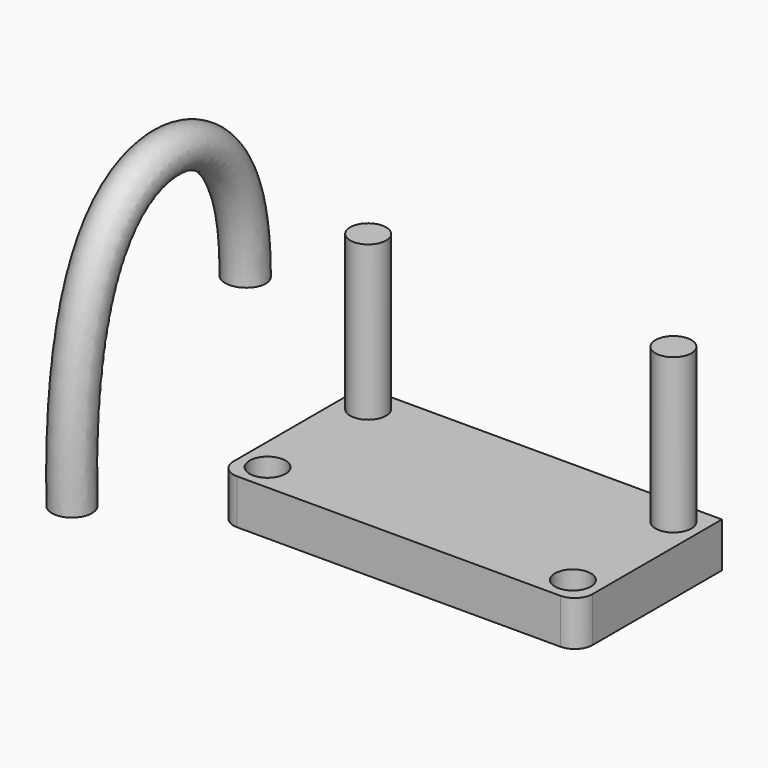
from build123d import *

# Parameters (mm, degrees)
F0_R     = 5.08
F1_DEPTH = 12.7
F4_R     = 5.6629201778


with BuildPart() as f1:
    # F0 (on Top) → F1 (new body)
    with BuildSketch(Plane.XY):
        with BuildLine():
            Line((50.8, 25.4), (-50.8, 25.4))
            Line((-50.8, 25.4), (-50.8, -20.32))
            ThreePointArc((-50.8, -20.32), (-49.3121024484, -23.9121024484), (-45.72, -25.4))
            Line((-45.72, -25.4), (45.72, -25.4))
            ThreePointArc((45.72, -25.4), (49.3121024484, -23.9121024484), (50.8, -20.32))
            Line((50.8, -20.32), (50.8, 25.4))
        make_face()
        with Locations((-43.18, -17.78)):
            Circle(F0_R, mode=Mode.SUBTRACT)
        with Locations((43.18, -17.78)):
            Circle(F0_R, mode=Mode.SUBTRACT)
        with Locations((-43.18, 17.78)):
            Circle(F0_R, mode=Mode.SUBTRACT)
        with Locations((43.18, 17.78)):
            Circle(F0_R, mode=Mode.SUBTRACT)
    extrude(amount=F1_DEPTH)


with BuildPart() as f3:
    # F3: sweep along a path in F2
    with BuildLine(Plane(origin=(-50.8, 0, 0), x_dir=(0, -1, 0), z_dir=(-1, 0, 0))) as f3_path:
        Line((-18.5537710786, 12.7), (-18.5537710786, 69.0565630794))
    # F0 (on Top) → F3 (sweep)
    with BuildSketch(Plane.XY):
        with Locations((-43.18, 17.78)):
            Circle(F0_R)
        with Locations((43.18, 17.78)):
            Circle(F0_R)
    sweep(path=f3_path.line)


with BuildPart() as f6:
    # F6: sweep along a path in F5
    with BuildLine(Plane.YZ.offset(50.8)) as f6_path:
        add(Plane.YZ.offset(50.8) * Edge.make_bspline(
            [(-59.1373257339, 12.8902019933), (-60.4012432353, 59.4742599736), (-40.206081369, 100.9540456467), (2.3180330713, 80.6896340972), (1.9432787085, 44.7065606713)],
            knots=[0, 0, 0, 0, 0.5478054325, 1, 1, 1, 1], degree=3))
    # F4 (on face) → F6 (sweep)
    with BuildSketch(Plane.XY.offset(12.7)):
        with Locations((-65.3745085001, -59.219095856)):
            Circle(F4_R)
    sweep(path=f6_path.line)


solid = Compound([f1.part, f3.part, f6.part])
